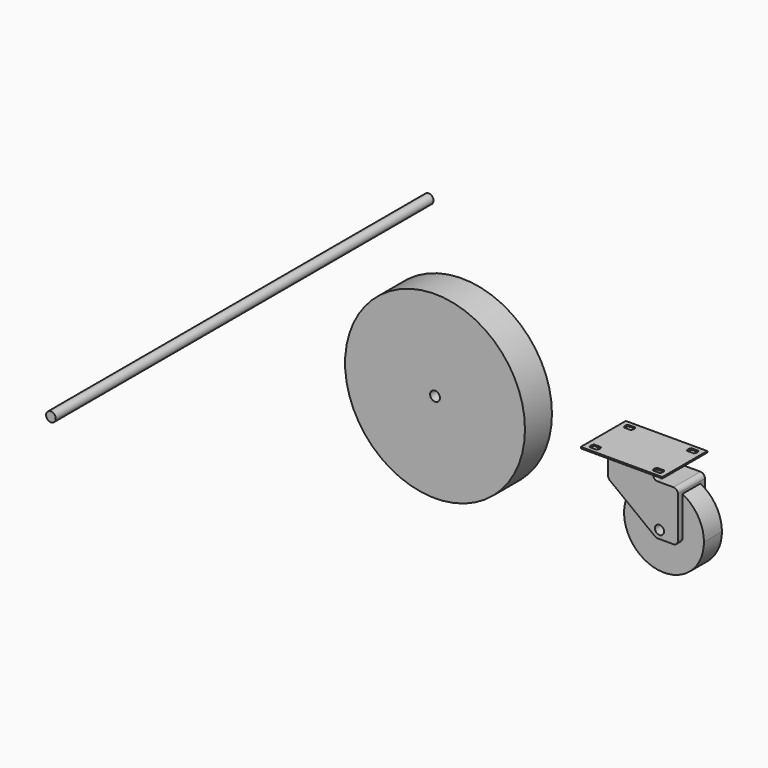
from build123d import *

# Parameters (mm, degrees)
F1_DEPTH  = 31.75
F0_R      = 5.107985
F2_DEPTH  = 12.7
F3_DEPTH  = 19.05
F4_R      = 5.08
F6_DEPTH  = 11.586112
F7_R      = 101.6
F7_R_2    = 5.55625
F8_DEPTH  = 19.05
F9_R      = 5.461
F10_DEPTH = 266.7


with BuildPart() as f1:
    # F0 (on Front) → F1 (new body, symmetric)
    with BuildSketch(Plane.XZ):
        Polygon((32.54375, 9.997612), (53.18125, 9.997612), (53.18125, 11.585112), (-38.89375, 11.585112), (-38.89375, 9.997612), (-18.25625, 9.997612), align=None)
    extrude(amount=F1_DEPTH, both=True)



with BuildPart() as f2:
    # F0 (on Front) → F2 (new body, symmetric)
    with BuildSketch(Plane.XZ):
        with BuildLine():
            Line((36.109813, -59.645225), (-0.904608, -31.324242))
            ThreePointArc((-0.904608, -31.324242), (30.009032, -94.555453), (84.95026, -50.563399))
            ThreePointArc((84.95026, -50.563399), (78.409808, -27.17644), (60.686174, -10.575232))
            Line((60.686174, -10.575232), (60.686174, -59.645225))
            Line((60.686174, -59.645225), (36.109813, -59.645225))
        make_face()
        with BuildLine():
            ThreePointArc((60.686174, -10.575232), (25.474166, -7.839575), (-0.904608, -31.324242))
            Line((-0.904608, -31.324242), (36.109813, -59.645225))
            Line((36.109813, -59.645225), (60.686174, -59.645225))
            Line((60.686174, -59.645225), (60.686174, -10.575232))
        make_face()
        with Locations((39.867181, -50.563399)):
            Circle(F0_R, mode=Mode.SUBTRACT)
    extrude(amount=F2_DEPTH, both=True)


with BuildPart() as f1_1:
    add(f1.part)

    add(f2.part)  # F3 merges F2
    # F0 (on Front) → F3 (join, symmetric)
    with BuildSketch(Plane.XZ):
        with BuildLine():
            Line((32.54375, -2.98306), (32.54375, 9.997612))
            Line((32.54375, 9.997612), (-18.25625, 9.997612))
            Line((-18.25625, 9.997612), (-18.25625, -18.047915))
            Line((-18.25625, -18.047915), (-0.904608, -31.324242))
            ThreePointArc((-0.904608, -31.324242), (25.474166, -7.839575), (60.686174, -10.575232))
            Line((60.686174, -10.575232), (60.686174, -2.98306))
            Line((60.686174, -2.98306), (32.54375, -2.98306))
        make_face()
        with BuildLine():
            ThreePointArc((60.686174, -10.575232), (25.474166, -7.839575), (-0.904608, -31.324242))
            Line((-0.904608, -31.324242), (36.109813, -59.645225))
            Line((36.109813, -59.645225), (60.686174, -59.645225))
            Line((60.686174, -59.645225), (60.686174, -10.575232))
        make_face()
        with Locations((39.867181, -50.563399)):
            Circle(F0_R, mode=Mode.SUBTRACT)
    extrude(amount=F3_DEPTH, both=True)

    # F4
    f4_edges = [f1_1.edges().sort_by_distance(p)[0] for p in [
        (60.686174, 0, -2.98306),
        (60.686174, -15.875, -59.645225),
        (60.686174, 15.875, -59.645225),
        (36.109813, -15.875, -59.645225),
        (36.109813, 15.875, -59.645225),
        (-18.25625, 0, -18.047915),
        (32.54375, 0, -2.98306),
    ]]
    fillet(f4_edges, radius=F4_R)

    # F5 (on Top) → F6 (cut, through all)
    with BuildSketch(Plane.XY):
        with BuildLine():
            Line((-32.490059, 20.908033), (-24.653533, 20.908033))
            ThreePointArc((-24.653533, 20.908033), (-23.528641, 24.083033), (-24.653533, 27.258033))
            Line((-24.653533, 27.258033), (-32.490059, 27.258033))
            ThreePointArc((-32.490059, 27.258033), (-33.614951, 24.083033), (-32.490059, 20.908033))
        make_face()
        with BuildLine():
            Line((38.846467, 20.908033), (46.682993, 20.908033))
            ThreePointArc((46.682993, 20.908033), (47.807884, 24.083033), (46.682993, 27.258033))
            Line((46.682993, 27.258033), (38.846467, 27.258033))
            ThreePointArc((38.846467, 27.258033), (37.721575, 24.083033), (38.846467, 20.908033))
        make_face()
        with BuildLine():
            Line((-24.653533, -20.908033), (-32.490059, -20.908033))
            ThreePointArc((-32.490059, -20.908033), (-33.614951, -24.083033), (-32.490059, -27.258033))
            Line((-32.490059, -27.258033), (-24.653533, -27.258033))
            ThreePointArc((-24.653533, -27.258033), (-23.528641, -24.083033), (-24.653533, -20.908033))
        make_face()
        with BuildLine():
            Line((46.682993, -20.908033), (38.846467, -20.908033))
            ThreePointArc((38.846467, -20.908033), (37.721575, -24.083033), (38.846467, -27.258033))
            Line((38.846467, -27.258033), (46.682993, -27.258033))
            ThreePointArc((46.682993, -27.258033), (47.807884, -24.083033), (46.682993, -20.908033))
        make_face()
    extrude(amount=F6_DEPTH, mode=Mode.SUBTRACT)


with BuildPart() as f8:
    # F7 (on Front) → F8 (new body, symmetric)
    with BuildSketch(Plane.XZ):
        with Locations((-213.723938, 0)):
            Circle(F7_R)
        with Locations((-213.723938, 0)):
            Circle(F7_R_2, mode=Mode.SUBTRACT)
    extrude(amount=F8_DEPTH, both=True)


with BuildPart() as f10:
    # F9 (on face) → F10 (new body, symmetric)
    with BuildSketch(Plane.XZ.offset(19.05)):
        with Locations((-434.251696, 16.141204)):
            Circle(F9_R)
    extrude(amount=F10_DEPTH, both=True)


solid = Compound([f1_1.part, f8.part, f10.part])
